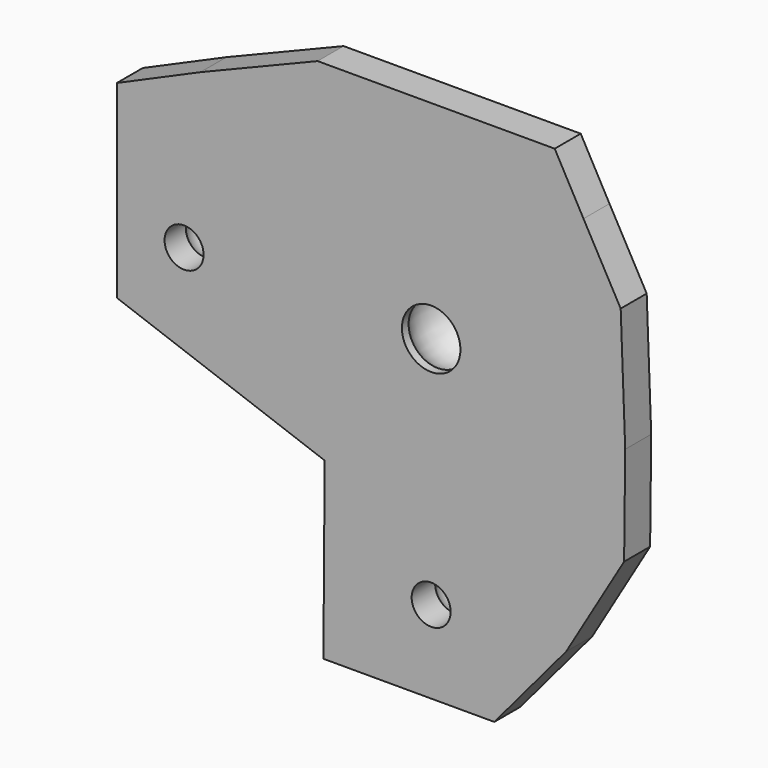
from build123d import *

# Parameters (mm, degrees)
F0_R     = 8
F0_R_2   = 4.5
F0_R_3   = 3
F1_DEPTH = 5
F2_DEPTH = 10
F3_DEPTH = 7


with BuildPart() as f1:
    # F0 (on Front) → F1 (new body)
    with BuildSketch(Plane.XZ):
        Polygon((18.9996465826, 31.9180320948), (-17.4607320469, 31.9180320948), (-35.4878548533, 24.5556049049), (-48.3473874629, 18.9076156824), (-48.3473874629, -10.1699698716), (-16.3799077272, -21.7999331653), (-16.571868211, -48.7112030387), (9.7124404529, -48.7112030387), (20.7713786513, -35.5700962245), (29.6717043966, -20.5233637244), (29.840618372, -5.252843257), (29.1450880468, 13.5724376887), (23.4245508909, 23.8787811249), align=None)
        with Locations((0, -36)):
            Circle(F0_R, mode=Mode.SUBTRACT)
        with Locations((-38, 0)):
            Circle(F0_R, mode=Mode.SUBTRACT)
        with BuildLine():
            ThreePointArc((1.5, 9.8868599666), (7.0710678119, 7.0710678119), (9.8868599666, 1.5))
            Line((9.8868599666, 1.5), (24.8868599666, 1.5))
            Line((24.8868599666, 1.5), (24.8868599666, 0))
            Line((24.8868599666, 0), (24.8868599666, -1.5))
            Line((24.8868599666, -1.5), (9.8868599666, -1.5))
            ThreePointArc((9.8868599666, -1.5), (7.0710678119, -7.0710678119), (1.5, -9.8868599666))
            Line((1.5, -9.8868599666), (1.5, -24.8868599666))
            Line((1.5, -24.8868599666), (0, -24.8868599666))
            Line((0, -24.8868599666), (-1.5, -24.8868599666))
            Line((-1.5, -24.8868599666), (-1.5, -9.8868599666))
            ThreePointArc((-1.5, -9.8868599666), (-7.0710678119, -7.0710678119), (-9.8868599666, -1.5))
            Line((-9.8868599666, -1.5), (-24.8868599666, -1.5))
            Line((-24.8868599666, -1.5), (-24.8868599666, 0))
            Line((-24.8868599666, 0), (-24.8868599666, 1.5))
            Line((-24.8868599666, 1.5), (-9.8868599666, 1.5))
            ThreePointArc((-9.8868599666, 1.5), (-7.0710678119, 7.0710678119), (-1.5, 9.8868599666))
            Line((-1.5, 9.8868599666), (-1.5, 24.8868599666))
            Line((-1.5, 24.8868599666), (0, 24.8868599666))
            Line((0, 24.8868599666), (1.5, 24.8868599666))
            Line((1.5, 24.8868599666), (1.5, 9.8868599666))
        make_face(mode=Mode.SUBTRACT)
        with BuildLine():
            ThreePointArc((9.8868599666, -1.5), (9.971674876, -0.7521304187), (10, 0))
            ThreePointArc((10, 0), (9.971674876, 0.7521304187), (9.8868599666, 1.5))
            ThreePointArc((9.8868599666, 1.5), (7.0710678119, 7.0710678119), (1.5, 9.8868599666))
            ThreePointArc((1.5, 9.8868599666), (0, 10), (-1.5, 9.8868599666))
            ThreePointArc((-1.5, 9.8868599666), (-7.0710678119, 7.0710678119), (-9.8868599666, 1.5))
            ThreePointArc((-9.8868599666, 1.5), (-10, 0), (-9.8868599666, -1.5))
            ThreePointArc((-9.8868599666, -1.5), (-7.0710678119, -7.0710678119), (-1.5, -9.8868599666))
            ThreePointArc((-1.5, -9.8868599666), (0, -10), (1.5, -9.8868599666))
            ThreePointArc((1.5, -9.8868599666), (7.0710678119, -7.0710678119), (9.8868599666, -1.5))
        make_face()
        Circle(F0_R_2, mode=Mode.SUBTRACT)
        with Locations((-38, 0)):
            Circle(F0_R)
        with Locations((-38, 0)):
            Circle(F0_R_3, mode=Mode.SUBTRACT)
        with Locations((0, -36)):
            Circle(F0_R)
        with Locations((0, -36)):
            Circle(F0_R_3, mode=Mode.SUBTRACT)
        with BuildLine():
            ThreePointArc((-9.8868599666, -1.5), (-10, 0), (-9.8868599666, 1.5))
            Line((-9.8868599666, 1.5), (-24.8868599666, 1.5))
            Line((-24.8868599666, 1.5), (-24.8868599666, 0))
            Line((-24.8868599666, 0), (-24.8868599666, -1.5))
            Line((-24.8868599666, -1.5), (-9.8868599666, -1.5))
        make_face()
        with BuildLine():
            ThreePointArc((-1.5, 9.8868599666), (0, 10), (1.5, 9.8868599666))
            Line((1.5, 9.8868599666), (1.5, 24.8868599666))
            Line((1.5, 24.8868599666), (0, 24.8868599666))
            Line((0, 24.8868599666), (-1.5, 24.8868599666))
            Line((-1.5, 24.8868599666), (-1.5, 9.8868599666))
        make_face()
        with BuildLine():
            ThreePointArc((9.8868599666, 1.5), (9.971674876, 0.7521304187), (10, 0))
            ThreePointArc((10, 0), (9.971674876, -0.7521304187), (9.8868599666, -1.5))
            Line((9.8868599666, -1.5), (24.8868599666, -1.5))
            Line((24.8868599666, -1.5), (24.8868599666, 0))
            Line((24.8868599666, 0), (24.8868599666, 1.5))
            Line((24.8868599666, 1.5), (9.8868599666, 1.5))
        make_face()
        with BuildLine():
            Line((1.5, -24.8868599666), (1.5, -9.8868599666))
            ThreePointArc((1.5, -9.8868599666), (0, -10), (-1.5, -9.8868599666))
            Line((-1.5, -9.8868599666), (-1.5, -24.8868599666))
            Line((-1.5, -24.8868599666), (0, -24.8868599666))
            Line((0, -24.8868599666), (1.5, -24.8868599666))
        make_face()
    extrude(amount=-F1_DEPTH)

    # F0 (on Front) → F2 (join)
    with BuildSketch(Plane.XZ):
        with BuildLine():
            ThreePointArc((9.8868599666, -1.5), (9.971674876, -0.7521304187), (10, 0))
            ThreePointArc((10, 0), (9.971674876, 0.7521304187), (9.8868599666, 1.5))
            ThreePointArc((9.8868599666, 1.5), (7.0710678119, 7.0710678119), (1.5, 9.8868599666))
            ThreePointArc((1.5, 9.8868599666), (0, 10), (-1.5, 9.8868599666))
            ThreePointArc((-1.5, 9.8868599666), (-7.0710678119, 7.0710678119), (-9.8868599666, 1.5))
            ThreePointArc((-9.8868599666, 1.5), (-10, 0), (-9.8868599666, -1.5))
            ThreePointArc((-9.8868599666, -1.5), (-7.0710678119, -7.0710678119), (-1.5, -9.8868599666))
            ThreePointArc((-1.5, -9.8868599666), (0, -10), (1.5, -9.8868599666))
            ThreePointArc((1.5, -9.8868599666), (7.0710678119, -7.0710678119), (9.8868599666, -1.5))
        make_face()
        Circle(F0_R_2, mode=Mode.SUBTRACT)
        with Locations((0, -36)):
            Circle(F0_R)
        with Locations((0, -36)):
            Circle(F0_R_3, mode=Mode.SUBTRACT)
        with Locations((-38, 0)):
            Circle(F0_R)
        with Locations((-38, 0)):
            Circle(F0_R_3, mode=Mode.SUBTRACT)
    extrude(amount=-F2_DEPTH)

    # F0 (on Front) → F3 (join)
    with BuildSketch(Plane.XZ):
        with BuildLine():
            ThreePointArc((-9.8868599666, -1.5), (-10, 0), (-9.8868599666, 1.5))
            Line((-9.8868599666, 1.5), (-24.8868599666, 1.5))
            Line((-24.8868599666, 1.5), (-24.8868599666, 0))
            Line((-24.8868599666, 0), (-24.8868599666, -1.5))
            Line((-24.8868599666, -1.5), (-9.8868599666, -1.5))
        make_face()
        with BuildLine():
            Line((1.5, -24.8868599666), (1.5, -9.8868599666))
            ThreePointArc((1.5, -9.8868599666), (0, -10), (-1.5, -9.8868599666))
            Line((-1.5, -9.8868599666), (-1.5, -24.8868599666))
            Line((-1.5, -24.8868599666), (0, -24.8868599666))
            Line((0, -24.8868599666), (1.5, -24.8868599666))
        make_face()
        with BuildLine():
            ThreePointArc((9.8868599666, 1.5), (9.971674876, 0.7521304187), (10, 0))
            ThreePointArc((10, 0), (9.971674876, -0.7521304187), (9.8868599666, -1.5))
            Line((9.8868599666, -1.5), (24.8868599666, -1.5))
            Line((24.8868599666, -1.5), (24.8868599666, 0))
            Line((24.8868599666, 0), (24.8868599666, 1.5))
            Line((24.8868599666, 1.5), (9.8868599666, 1.5))
        make_face()
        with BuildLine():
            ThreePointArc((-1.5, 9.8868599666), (0, 10), (1.5, 9.8868599666))
            Line((1.5, 9.8868599666), (1.5, 24.8868599666))
            Line((1.5, 24.8868599666), (0, 24.8868599666))
            Line((0, 24.8868599666), (-1.5, 24.8868599666))
            Line((-1.5, 24.8868599666), (-1.5, 9.8868599666))
        make_face()
    extrude(amount=-F3_DEPTH)

    # F5 (on Top) → F6 (revolve, cut)
    with BuildSketch(Plane.XY):
        with BuildLine():
            ThreePointArc((-38, 9.9469926208), (-41.7, 6.2469926208), (-38, 2.5469926208))
            Line((-38, 2.5469926208), (-38, 9.9469926208))
        make_face()
    revolve(axis=Axis((-38, 4.9734963104, 0), (0, -1, 0)), mode=Mode.SUBTRACT)

    # F4 (on Right) → F7 (revolve, cut)
    with BuildSketch(Plane.YZ):
        with BuildLine():
            Line((2.9804437381, -35.9969779618), (10.3804399341, -35.9894746928))
            ThreePointArc((10.3804399341, -35.9894746928), (6.6766902016, -32.2932282293), (2.9804437381, -35.9969779618))
        make_face()
    revolve(axis=Axis((0, 3.1299426986, -35.9968263765), (0, 0.9999994859, 0.0010139553)), mode=Mode.SUBTRACT)

    # F4 (on Right) → F8 (revolve, cut)
    with BuildSketch(Plane.YZ):
        with BuildLine():
            Line((0, 0), (10, 0))
            ThreePointArc((10, 0), (5, 6.1049875621), (0, 0))
        make_face()
    revolve(axis=Axis((0, 5, 0), (0, -1, 0)), mode=Mode.SUBTRACT)


solid = f1.part
